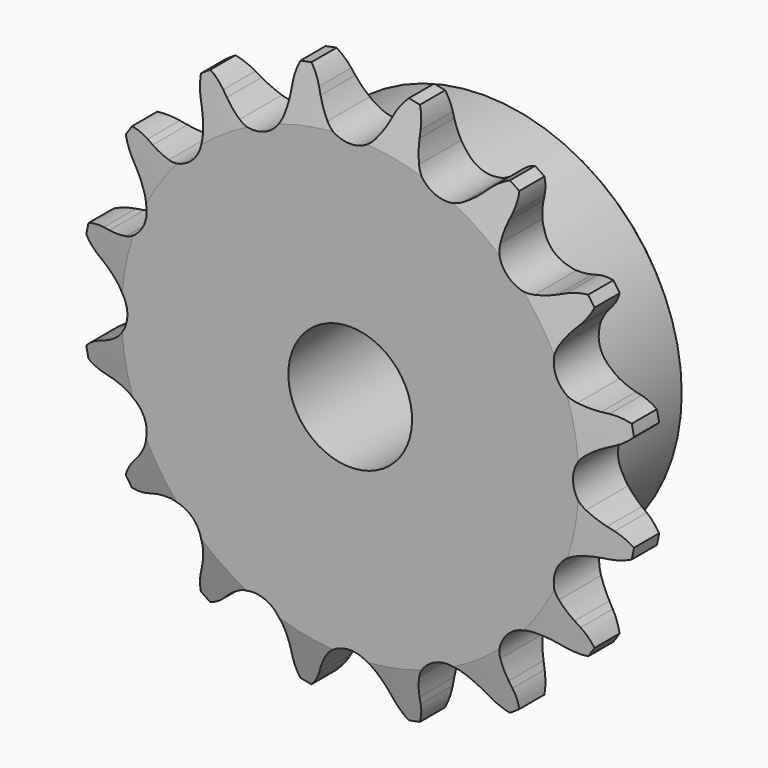
from build123d import *

# Parameters (mm, degrees)
F0_W     = 15.0114
F0_H     = 17.4625
F0_W_2   = 7.2136
F0_H_2   = 10.287
F2_R     = 1.5875
F3_SIZE  = 0.80645
F4_SIZE2 = 6.35
F4_SIZE  = 1.5875
F6_DEPTH = 22.226


with BuildPart() as f1:
    # F0 (on Right) → F1 (revolve)
    with BuildSketch(Plane.YZ):
        with Locations((14.7193, 16.66875)):
            Rectangle(F0_W, F0_H)
        with Locations((3.6068, 16.66875)):
            Rectangle(F0_W_2, F0_H)
        with Locations((3.6068, 30.5435)):
            Rectangle(F0_W_2, F0_H_2)
    revolve(axis=Axis((0, 18.7728193319, 0), (0, 1, 0)))

    # F2
    f2_edges = [f1.edges().sort_by_distance(p)[0] for p in [
        (0, 7.2136, -25.4),
    ]]
    fillet(f2_edges, radius=F2_R)

    # F3
    f3_edges = [f1.edges().sort_by_distance(p)[0] for p in [
        (0, 22.225, -25.4),
    ]]
    chamfer(f3_edges, length=F3_SIZE)

    # F4
    f4_edges = [f1.edges().sort_by_distance(p)[0] for p in [
        (0, 0, -35.687),
        (0, 7.2136, -35.687),
    ]]
    f4_side = f1.faces().sort_by_distance((0, 3.6068, -35.687))[0]
    chamfer(f4_edges, length=F4_SIZE, length2=F4_SIZE2, reference=f4_side)

    # F5 (on face) → F6 (intersect, through all)
    with BuildSketch(Plane.XZ):
        with BuildLine():
            ThreePointArc((-3.0902142758, 30.0699408338), (-3.8441959519, 31.1417538349), (-4.4568878106, 32.3001493474))
            Line((-4.4568878106, 32.3001493474), (-4.8164154778, 33.0982711732))
            ThreePointArc((-4.8164154778, 33.0982711732), (-5.7824590494, 34.6345413147), (-7.1308367855, 35.8491373836))
            ThreePointArc((-7.1308367855, 35.8491373836), (-7.9117695854, 34.2109951151), (-8.2163723379, 32.4219777052))
            Line((-8.2163723379, 32.4219777052), (-8.2431045912, 31.5470240041))
            ThreePointArc((-8.2431045912, 31.5470240041), (-8.3658592885, 30.2423390761), (-8.6522824488, 28.963576686))
            ThreePointArc((-8.6522824488, 28.963576686), (-10.9400391594, 26.4115909116), (-14.3622538898, 26.5984290744))
            ThreePointArc((-14.3622538898, 26.5984290744), (-15.4690072063, 27.300118873), (-16.4783594451, 28.135869754))
            Line((-16.4783594451, 28.135869754), (-17.115947698, 28.7356528917))
            ThreePointArc((-17.115947698, 28.7356528917), (-18.596360712, 29.7852925621), (-20.3069050971, 30.3914311902))
            ThreePointArc((-20.3069050971, 30.3914311902), (-20.4015030212, 28.5791350327), (-19.9982919468, 26.8097320375))
            Line((-19.9982919468, 26.8097320375), (-19.688159043, 25.9911502307))
            ThreePointArc((-19.688159043, 25.9911502307), (-19.3022882889, 24.7388023405), (-19.0775476037, 23.4477705432))
            ThreePointArc((-19.0775476037, 23.4477705432), (-20.2145565285, 20.2145565285), (-23.4477705432, 19.0775476037))
            ThreePointArc((-23.4477705432, 19.0775476037), (-24.7388023405, 19.3022882889), (-25.9911502307, 19.688159043))
            Line((-25.9911502307, 19.688159043), (-26.8097320375, 19.9982919468))
            ThreePointArc((-26.8097320375, 19.9982919468), (-28.5791350327, 20.4015030212), (-30.3914311902, 20.3069050971))
            ThreePointArc((-30.3914311902, 20.3069050971), (-29.7852925621, 18.596360712), (-28.7356528917, 17.115947698))
            Line((-28.7356528917, 17.115947698), (-28.135869754, 16.4783594451))
            ThreePointArc((-28.135869754, 16.4783594451), (-27.300118873, 15.4690072063), (-26.5984290744, 14.3622538898))
            ThreePointArc((-26.5984290744, 14.3622538898), (-26.4115909116, 10.9400391594), (-28.963576686, 8.6522824488))
            ThreePointArc((-28.963576686, 8.6522824488), (-30.2423390761, 8.3658592885), (-31.5470240041, 8.2431045912))
            Line((-31.5470240041, 8.2431045912), (-32.4219777052, 8.2163723379))
            ThreePointArc((-32.4219777052, 8.2163723379), (-34.2109951151, 7.9117695854), (-35.8491373836, 7.1308367855))
            ThreePointArc((-35.8491373836, 7.1308367855), (-34.6345413147, 5.7824590494), (-33.0982711732, 4.8164154778))
            Line((-33.0982711732, 4.8164154778), (-32.3001493474, 4.4568878106))
            ThreePointArc((-32.3001493474, 4.4568878106), (-31.1417538349, 3.8441959519), (-30.0699408338, 3.0902142758))
            ThreePointArc((-30.0699408338, 3.0902142758), (-28.5877, 0), (-30.0699408338, -3.0902142758))
            ThreePointArc((-30.0699408338, -3.0902142758), (-31.1417538349, -3.8441959519), (-32.3001493474, -4.4568878106))
            Line((-32.3001493474, -4.4568878106), (-33.0982711732, -4.8164154778))
            ThreePointArc((-33.0982711732, -4.8164154778), (-34.6345413147, -5.7824590494), (-35.8491373836, -7.1308367855))
            ThreePointArc((-35.8491373836, -7.1308367855), (-34.2109951151, -7.9117695854), (-32.4219777052, -8.2163723379))
            Line((-32.4219777052, -8.2163723379), (-31.5470240041, -8.2431045912))
            ThreePointArc((-31.5470240041, -8.2431045912), (-30.2423390761, -8.3658592885), (-28.963576686, -8.6522824488))
            ThreePointArc((-28.963576686, -8.6522824488), (-26.4115909116, -10.9400391594), (-26.5984290744, -14.3622538898))
            ThreePointArc((-26.5984290744, -14.3622538898), (-27.300118873, -15.4690072063), (-28.135869754, -16.4783594451))
            Line((-28.135869754, -16.4783594451), (-28.7356528917, -17.115947698))
            ThreePointArc((-28.7356528917, -17.115947698), (-29.7852925621, -18.596360712), (-30.3914311902, -20.3069050971))
            ThreePointArc((-30.3914311902, -20.3069050971), (-28.5791350327, -20.4015030212), (-26.8097320375, -19.9982919468))
            Line((-26.8097320375, -19.9982919468), (-25.9911502307, -19.688159043))
            ThreePointArc((-25.9911502307, -19.688159043), (-24.7388023405, -19.3022882889), (-23.4477705432, -19.0775476037))
            ThreePointArc((-23.4477705432, -19.0775476037), (-20.2145565285, -20.2145565285), (-19.0775476037, -23.4477705432))
            ThreePointArc((-19.0775476037, -23.4477705432), (-19.3022882889, -24.7388023405), (-19.688159043, -25.9911502307))
            Line((-19.688159043, -25.9911502307), (-19.9982919468, -26.8097320375))
            ThreePointArc((-19.9982919468, -26.8097320375), (-20.4015030212, -28.5791350327), (-20.3069050971, -30.3914311902))
            ThreePointArc((-20.3069050971, -30.3914311902), (-18.596360712, -29.7852925621), (-17.115947698, -28.7356528917))
            Line((-17.115947698, -28.7356528917), (-16.4783594451, -28.135869754))
            ThreePointArc((-16.4783594451, -28.135869754), (-15.4690072063, -27.300118873), (-14.3622538898, -26.5984290744))
            ThreePointArc((-14.3622538898, -26.5984290744), (-10.9400391594, -26.4115909116), (-8.6522824488, -28.963576686))
            ThreePointArc((-8.6522824488, -28.963576686), (-8.3658592885, -30.2423390761), (-8.2431045912, -31.5470240041))
            Line((-8.2431045912, -31.5470240041), (-8.2163723379, -32.4219777052))
            ThreePointArc((-8.2163723379, -32.4219777052), (-7.9117695854, -34.2109951151), (-7.1308367855, -35.8491373836))
            ThreePointArc((-7.1308367855, -35.8491373836), (-5.7824590494, -34.6345413147), (-4.8164154778, -33.0982711732))
            Line((-4.8164154778, -33.0982711732), (-4.4568878106, -32.3001493474))
            ThreePointArc((-4.4568878106, -32.3001493474), (-3.8441959519, -31.1417538349), (-3.0902142758, -30.0699408338))
            ThreePointArc((-3.0902142758, -30.0699408338), (0, -28.5877), (3.0902142758, -30.0699408338))
            ThreePointArc((3.0902142758, -30.0699408338), (3.8441959519, -31.1417538349), (4.4568878106, -32.3001493474))
            Line((4.4568878106, -32.3001493474), (4.8164154778, -33.0982711732))
            ThreePointArc((4.8164154778, -33.0982711732), (5.7824590494, -34.6345413147), (7.1308367855, -35.8491373836))
            ThreePointArc((7.1308367855, -35.8491373836), (7.9117695854, -34.2109951151), (8.2163723379, -32.4219777052))
            Line((8.2163723379, -32.4219777052), (8.2431045912, -31.5470240041))
            ThreePointArc((8.2431045912, -31.5470240041), (8.3658592885, -30.2423390761), (8.6522824488, -28.963576686))
            ThreePointArc((8.6522824488, -28.963576686), (10.9400391594, -26.4115909116), (14.3622538898, -26.5984290744))
            ThreePointArc((14.3622538898, -26.5984290744), (15.4690072063, -27.300118873), (16.4783594451, -28.135869754))
            Line((16.4783594451, -28.135869754), (17.115947698, -28.7356528917))
            ThreePointArc((17.115947698, -28.7356528917), (18.596360712, -29.7852925621), (20.3069050971, -30.3914311902))
            ThreePointArc((20.3069050971, -30.3914311902), (20.4015030212, -28.5791350327), (19.9982919468, -26.8097320375))
            Line((19.9982919468, -26.8097320375), (19.688159043, -25.9911502307))
            ThreePointArc((19.688159043, -25.9911502307), (19.3022882889, -24.7388023405), (19.0775476037, -23.4477705432))
            ThreePointArc((19.0775476037, -23.4477705432), (20.2145565285, -20.2145565285), (23.4477705432, -19.0775476037))
            ThreePointArc((23.4477705432, -19.0775476037), (24.7388023405, -19.3022882889), (25.9911502307, -19.688159043))
            Line((25.9911502307, -19.688159043), (26.8097320375, -19.9982919468))
            ThreePointArc((26.8097320375, -19.9982919468), (28.5791350327, -20.4015030212), (30.3914311902, -20.3069050971))
            ThreePointArc((30.3914311902, -20.3069050971), (29.7852925621, -18.596360712), (28.7356528917, -17.115947698))
            Line((28.7356528917, -17.115947698), (28.135869754, -16.4783594451))
            ThreePointArc((28.135869754, -16.4783594451), (27.300118873, -15.4690072063), (26.5984290744, -14.3622538898))
            ThreePointArc((26.5984290744, -14.3622538898), (26.4115909116, -10.9400391594), (28.963576686, -8.6522824488))
            ThreePointArc((28.963576686, -8.6522824488), (30.2423390761, -8.3658592885), (31.5470240041, -8.2431045912))
            Line((31.5470240041, -8.2431045912), (32.4219777052, -8.2163723379))
            ThreePointArc((32.4219777052, -8.2163723379), (34.2109951151, -7.9117695854), (35.8491373836, -7.1308367855))
            ThreePointArc((35.8491373836, -7.1308367855), (34.6345413147, -5.7824590494), (33.0982711732, -4.8164154778))
            Line((33.0982711732, -4.8164154778), (32.3001493474, -4.4568878106))
            ThreePointArc((32.3001493474, -4.4568878106), (31.1417538349, -3.8441959519), (30.0699408338, -3.0902142758))
            ThreePointArc((30.0699408338, -3.0902142758), (28.5877, 0), (30.0699408338, 3.0902142758))
            ThreePointArc((30.0699408338, 3.0902142758), (31.1417538349, 3.8441959519), (32.3001493474, 4.4568878106))
            Line((32.3001493474, 4.4568878106), (33.0982711732, 4.8164154778))
            ThreePointArc((33.0982711732, 4.8164154778), (34.6345413147, 5.7824590494), (35.8491373836, 7.1308367855))
            ThreePointArc((35.8491373836, 7.1308367855), (34.2109951151, 7.9117695854), (32.4219777052, 8.2163723379))
            Line((32.4219777052, 8.2163723379), (31.5470240041, 8.2431045912))
            ThreePointArc((31.5470240041, 8.2431045912), (30.2423390761, 8.3658592885), (28.963576686, 8.6522824488))
            ThreePointArc((28.963576686, 8.6522824488), (26.4115909116, 10.9400391594), (26.5984290744, 14.3622538898))
            ThreePointArc((26.5984290744, 14.3622538898), (27.300118873, 15.4690072063), (28.135869754, 16.4783594451))
            Line((28.135869754, 16.4783594451), (28.7356528917, 17.115947698))
            ThreePointArc((28.7356528917, 17.115947698), (29.7852925621, 18.596360712), (30.3914311902, 20.3069050971))
            ThreePointArc((30.3914311902, 20.3069050971), (28.5791350327, 20.4015030212), (26.8097320375, 19.9982919468))
            Line((26.8097320375, 19.9982919468), (25.9911502307, 19.688159043))
            ThreePointArc((25.9911502307, 19.688159043), (24.7388023405, 19.3022882889), (23.4477705432, 19.0775476037))
            ThreePointArc((23.4477705432, 19.0775476037), (20.2145565285, 20.2145565285), (19.0775476037, 23.4477705432))
            ThreePointArc((19.0775476037, 23.4477705432), (19.3022882889, 24.7388023405), (19.688159043, 25.9911502307))
            Line((19.688159043, 25.9911502307), (19.9982919468, 26.8097320375))
            ThreePointArc((19.9982919468, 26.8097320375), (20.4015030212, 28.5791350327), (20.3069050971, 30.3914311902))
            ThreePointArc((20.3069050971, 30.3914311902), (18.596360712, 29.7852925621), (17.115947698, 28.7356528917))
            Line((17.115947698, 28.7356528917), (16.4783594451, 28.135869754))
            ThreePointArc((16.4783594451, 28.135869754), (15.4690072063, 27.300118873), (14.3622538898, 26.5984290744))
            ThreePointArc((14.3622538898, 26.5984290744), (10.9400391594, 26.4115909116), (8.6522824488, 28.963576686))
            ThreePointArc((8.6522824488, 28.963576686), (8.3658592885, 30.2423390761), (8.2431045912, 31.5470240041))
            Line((8.2431045912, 31.5470240041), (8.2163723379, 32.4219777052))
            ThreePointArc((8.2163723379, 32.4219777052), (7.9117695854, 34.2109951151), (7.1308367855, 35.8491373836))
            ThreePointArc((7.1308367855, 35.8491373836), (5.7824590494, 34.6345413147), (4.8164154778, 33.0982711732))
            Line((4.8164154778, 33.0982711732), (4.4568878106, 32.3001493474))
            ThreePointArc((4.4568878106, 32.3001493474), (3.8441959519, 31.1417538349), (3.0902142758, 30.0699408338))
            ThreePointArc((3.0902142758, 30.0699408338), (0, 28.5877), (-3.0902142758, 30.0699408338))
        make_face()
    extrude(amount=-F6_DEPTH, mode=Mode.INTERSECT)


solid = f1.part
